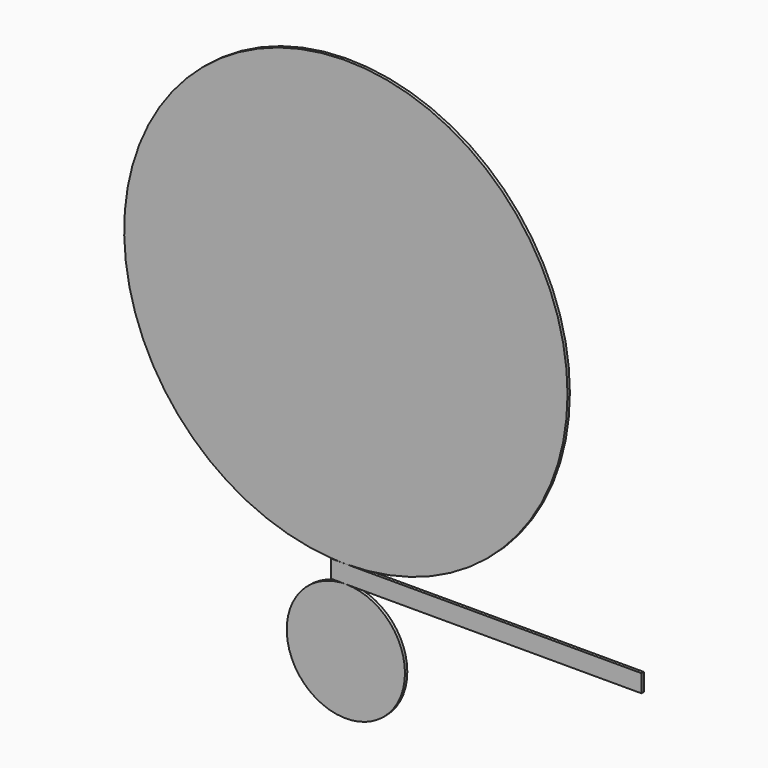
from build123d import *

# Parameters (mm, degrees)
F1_DEPTH = 25.4


with BuildPart() as f1:
    # F0 (on Front) → F1 (new body)
    with BuildSketch(Plane.XZ):
        with BuildLine():
            ThreePointArc((-3e-06, 76.2), (1347.038417, 634.161581), (1905, 1981.2))
            ThreePointArc((1905, 1981.2), (-1301.362747, 3372.415296), (-127, 80.438048))
            ThreePointArc((-127, 80.438048), (-63.535348, 77.259807), (-3e-06, 76.2))
        make_face()
        Polygon((2540, 76.2), (-3e-06, 76.2), (-127, 76.2), (-127, -76.2), (1e-06, -76.2), (2540, -76.2), align=None)
        with BuildLine():
            ThreePointArc((508, -584.2), (359.210245, -224.989755), (1e-06, -76.2))
            ThreePointArc((1e-06, -76.2), (-64.01018, -80.248914), (-127, -92.331115))
            ThreePointArc((-127, -92.331115), (-311.085197, -985.809263), (508, -584.2))
        make_face()
    extrude(amount=F1_DEPTH)


solid = f1.part
